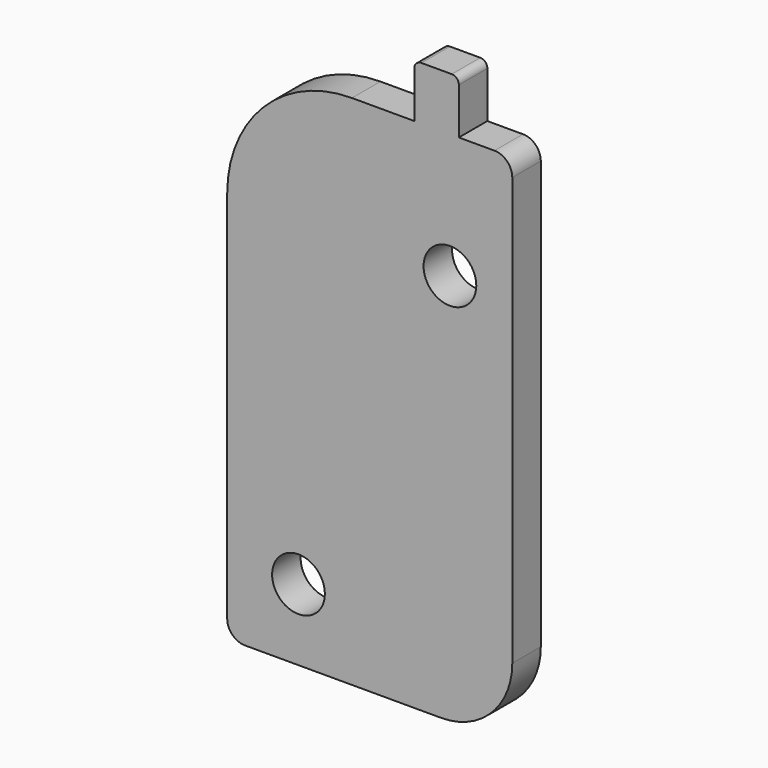
from build123d import *

# Parameters (mm, degrees)
F0_R     = 4.699
F1_DEPTH = 6.35


with BuildPart() as f1:
    # F0 (on Front) → F1 (new body)
    with BuildSketch(Plane.XZ):
        with BuildLine():
            ThreePointArc((-12.7, 0), (-3.719744, 3.719744), (0, 12.7))
            Line((0, 12.7), (0, 88.9))
            ThreePointArc((0, 88.9), (-0.929936, 91.145064), (-3.175, 92.075))
            Line((-3.175, 92.075), (-9.525, 92.075))
            Line((-9.525, 92.075), (-9.525, 100.33))
            ThreePointArc((-9.525, 100.33), (-9.896974, 101.228026), (-10.795, 101.6))
            Line((-10.795, 101.6), (-16.1925, 101.6))
            ThreePointArc((-16.1925, 101.6), (-17.090526, 101.228026), (-17.4625, 100.33))
            Line((-17.4625, 100.33), (-17.4625, 92.075))
            Line((-17.4625, 92.075), (-28.575, 92.075))
            ThreePointArc((-28.575, 92.075), (-44.290448, 85.565448), (-50.8, 69.85))
            Line((-50.8, 69.85), (-50.8, 3.175))
            ThreePointArc((-50.8, 3.175), (-49.870064, 0.929936), (-47.625, 0))
            Line((-47.625, 0), (-12.7, 0))
        make_face()
        with Locations((-38.1, 12.7)):
            Circle(F0_R, mode=Mode.SUBTRACT)
        with Locations((-11.1125, 69.85)):
            Circle(F0_R, mode=Mode.SUBTRACT)
    extrude(amount=F1_DEPTH)


solid = f1.part
